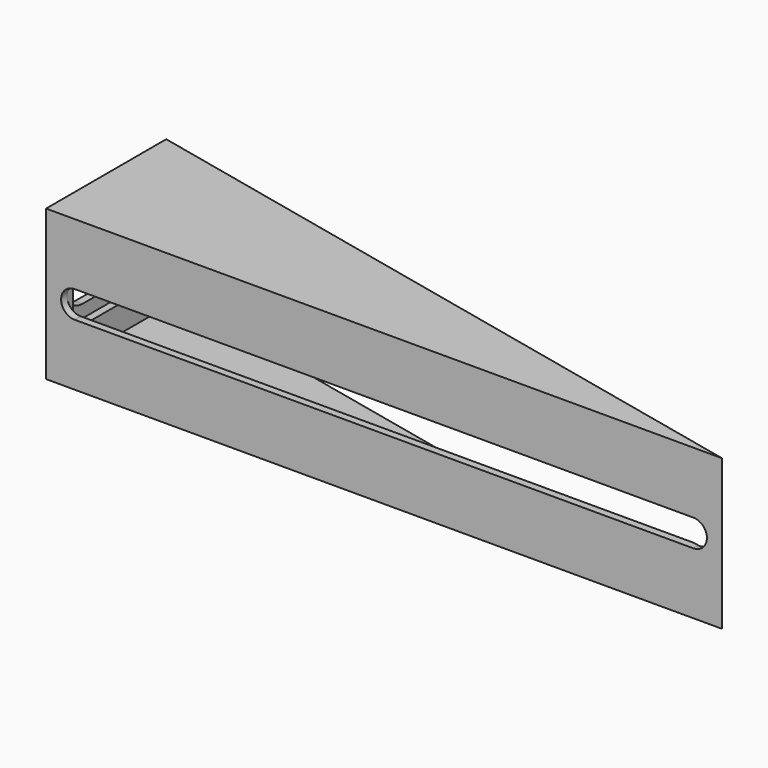
from build123d import *

# Parameters (mm, degrees)
PAD_DEPTH            = 20
SKETCH001_W          = 88
SKETCH001_H          = 16
POCKET_DEPTH         = 18.001
POCKET001_DEPTH      = 2.001
POCKET002_DEPTH      = 1
POCKET002_DEPTH_BACK = -5
POCKET003_DEPTH      = 2.001
POCKET004_DEPTH      = 1


with BuildPart() as part:
    # Sketch → Pad (new body)
    with BuildSketch(Plane.XY):
        Polygon((0, 0), (0, 20), (90, 0), align=None)
    extrude(amount=PAD_DEPTH)

    # Sketch001 → Pocket (cut, through all)
    with BuildSketch(Plane.XZ.offset(-2)):
        with Locations((46, 10)):
            Rectangle(SKETCH001_W, SKETCH001_H)
    extrude(amount=-POCKET_DEPTH, mode=Mode.SUBTRACT)

    # Sketch002 (on Face9 of Pocket) → Pocket001 (cut, through all)
    with BuildSketch(Plane.YZ.offset(2)):
        with BuildLine():
            ThreePointArc((4.8, 12.8), (2, 10), (4.8, 7.2))
            Line((4.8, 7.2), (15.2, 7.2))
            ThreePointArc((15.2, 7.2), (18, 10), (15.2, 12.8))
            Line((4.8, 12.8), (15.2, 12.8))
        make_face()
    extrude(amount=-POCKET001_DEPTH, mode=Mode.SUBTRACT)

    # Sketch003 (on Face13 of Pocket001) → Pocket002 (cut, two sides)
    with BuildSketch(Plane.YZ.offset(2)) as pocket002_sk:
        with BuildLine():
            ThreePointArc((15.2, 5.5), (19.7, 10), (15.2, 14.5))
            Line((4.8, 14.5), (15.2, 14.5))
            ThreePointArc((4.8, 14.5), (3.317186, 14.248678), (2, 13.522783))
            Line((2, 13.522783), (2, 6.477217))
            ThreePointArc((2, 6.477217), (3.317186, 5.751322), (4.8, 5.5))
            Line((4.8, 5.5), (15.2, 5.5))
        make_face()
    extrude(amount=-POCKET002_DEPTH, mode=Mode.SUBTRACT)
    extrude(pocket002_sk.sketch, amount=-POCKET002_DEPTH_BACK, mode=Mode.SUBTRACT)

    # Sketch004 (on Face20 of Pocket002) → Pocket003 (cut, through all)
    with BuildSketch(Plane(origin=(0, 2, 0), x_dir=(-1, 0, 0), z_dir=(0, 1, 0))):
        with BuildLine():
            ThreePointArc((-86.2, 11.8), (-88, 10), (-86.2, 8.2))
            Line((-86.2, 8.2), (-3.8, 8.2))
            ThreePointArc((-3.8, 8.2), (-2, 10), (-3.8, 11.8))
            Line((-86.2, 11.8), (-3.8, 11.8))
        make_face()
    extrude(amount=-POCKET003_DEPTH, mode=Mode.SUBTRACT)

    # Sketch005 (on Face15 of Pocket003) → Pocket004 (cut)
    with BuildSketch(Plane(origin=(0, 2, 0), x_dir=(-1, 0, 0), z_dir=(0, 1, 0))):
        with BuildLine():
            ThreePointArc((-86.2, 13), (-89.2, 10), (-86.2, 7))
            Line((-86.2, 7), (-3.8, 7))
            ThreePointArc((-3.8, 7), (-2.851317, 7.15395), (-2, 7.6))
            Line((-2, 12.4), (-2, 7.6))
            ThreePointArc((-2, 12.4), (-2.851317, 12.84605), (-3.8, 13))
            Line((-86.2, 13), (-3.8, 13))
        make_face()
    extrude(amount=-POCKET004_DEPTH, mode=Mode.SUBTRACT)


solid = part.part
